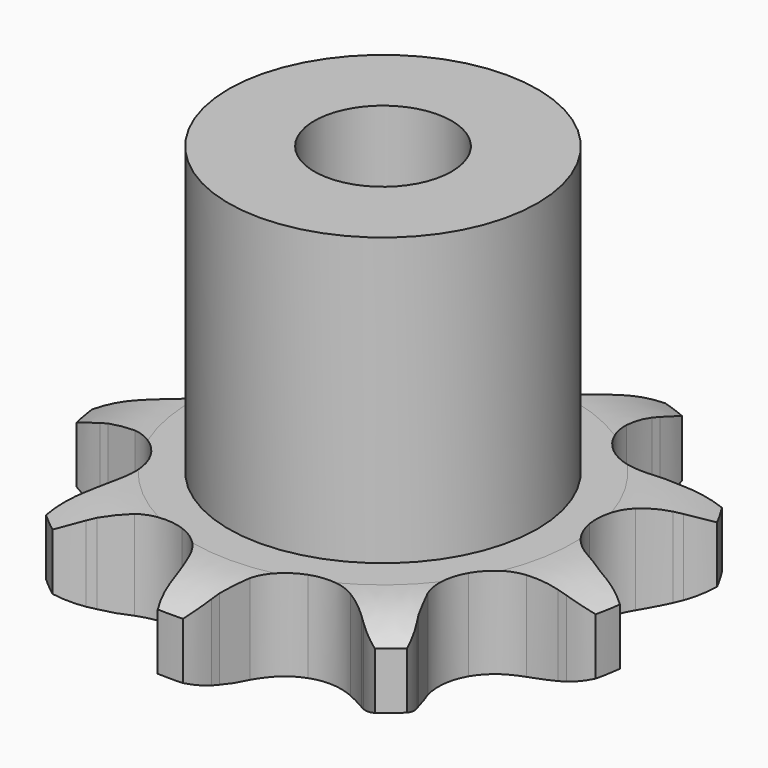
from build123d import *

# Parameters (mm, degrees)
PAD_DEPTH         = 5.3
SKETCH001_R       = 9
PAD001_DEPTH      = 22
SKETCH002_R       = 4
POCKET_DEPTH      = 0.001
POCKET_DEPTH_BACK = -22.001


with BuildPart() as part:
    # Sprocket → Pad (new body)
    with BuildSketch(Plane.XY):
        with BuildLine():
            ThreePointArc((-5.677804, 15.599638), (-4.530468, 14.728486), (-3.653036, 13.585944))
            Line((-3.653036, 13.585944), (-3.408939, 13.161256))
            ThreePointArc((-3.408939, 13.161256), (-2.946106, 12.443997), (-2.412125, 11.778009))
            ThreePointArc((-2.412125, 11.778009), (-1.321918, 10.978636), (0, 10.695643))
            ThreePointArc((0, 10.695643), (1.321918, 10.978636), (2.412125, 11.778009))
            ThreePointArc((2.412125, 11.778009), (2.946106, 12.443997), (3.408939, 13.161256))
            Line((3.408939, 13.161256), (3.653036, 13.585944))
            ThreePointArc((3.653036, 13.585944), (4.530468, 14.728486), (5.677804, 15.599638))
            ThreePointArc((5.677804, 15.599638), (5.996748, 14.194803), (5.934489, 12.755564))
            Line((5.934489, 12.755564), (5.848494, 12.273331))
            ThreePointArc((5.848494, 12.273331), (5.741999, 11.426375), (5.722963, 10.572963))
            ThreePointArc((5.722963, 10.572963), (6.044283, 9.259835), (6.875027, 8.193338))
            ThreePointArc((6.875027, 8.193338), (8.069579, 7.560411), (9.418554, 7.471994))
            Line((9.418554, 7.471994), (11.071291, 7.890883))
            ThreePointArc((11.071291, 7.890883), (11.300037, 7.978487), (11.531265, 8.059311))
            ThreePointArc((11.531265, 8.059311), (12.937828, 8.370546), (14.376704, 8.300394))
            ThreePointArc((14.376704, 8.300394), (13.718019, 7.019214), (12.7452, 5.956713))
            Line((12.7452, 5.956713), (12.369351, 5.642578))
            ThreePointArc((12.369351, 5.642578), (11.743359, 5.062226), (11.180214, 4.42071))
            ThreePointArc((11.180214, 4.42071), (10.582297, 3.208255), (10.533153, 1.857279))
            ThreePointArc((10.533153, 1.857279), (11.041394, 0.604585), (12.017936, -0.33025))
            Line((12.017936, -0.33025), (13.553263, -1.071722))
            ThreePointArc((13.553263, -1.071722), (13.784803, -1.151648), (14.013886, -1.238364))
            ThreePointArc((14.013886, -1.238364), (15.291434, -1.904065), (16.348585, -2.882697))
            ThreePointArc((16.348585, -2.882697), (15.020477, -3.440743), (13.592291, -3.62935))
            Line((13.592291, -3.62935), (13.102452, -3.6284))
            ThreePointArc((13.102452, -3.6284), (12.249871, -3.670596), (11.406118, -3.800043))
            ThreePointArc((11.406118, -3.800043), (10.168736, -4.344504), (9.262699, -5.347822))
            ThreePointArc((9.262699, -5.347822), (8.846819, -6.634132), (8.993993, -7.977966))
            Line((8.993993, -7.977966), (9.693513, -9.532856))
            ThreePointArc((9.693513, -9.532856), (9.819507, -9.742914), (9.939255, -9.956594))
            ThreePointArc((9.939255, -9.956594), (10.490009, -11.287743), (10.670781, -12.716941))
            ThreePointArc((10.670781, -12.716941), (9.294686, -12.290738), (8.079398, -11.5172))
            Line((8.079398, -11.5172), (7.70477, -11.201609))
            ThreePointArc((7.70477, -11.201609), (7.024532, -10.685904), (6.294973, -10.242713))
            ThreePointArc((6.294973, -10.242713), (4.997111, -9.864421), (3.658126, -10.050617))
            ThreePointArc((3.658126, -10.050617), (2.512718, -10.768666), (1.76166, -11.892704))
            Line((1.76166, -11.892704), (1.29806, -13.533461))
            ThreePointArc((1.29806, -13.533461), (1.259555, -13.775362), (1.213936, -14.016024))
            ThreePointArc((1.213936, -14.016024), (0.780192, -15.38976), (0, -16.600788))
            ThreePointArc((0, -16.600788), (-0.780192, -15.38976), (-1.213936, -14.016024))
            Line((-1.213936, -14.016024), (-1.29806, -13.533461))
            ThreePointArc((-1.29806, -13.533461), (-1.487663, -12.70116), (-1.76166, -11.892704))
            ThreePointArc((-1.76166, -11.892704), (-2.512718, -10.768666), (-3.658126, -10.050617))
            ThreePointArc((-3.658126, -10.050617), (-4.997111, -9.864421), (-6.294973, -10.242713))
            Line((-6.294973, -10.242713), (-7.70477, -11.201609))
            ThreePointArc((-7.70477, -11.201609), (-7.889758, -11.362166), (-8.079398, -11.5172))
            ThreePointArc((-8.079398, -11.5172), (-9.294686, -12.290738), (-10.670781, -12.716941))
            ThreePointArc((-10.670781, -12.716941), (-10.490009, -11.287743), (-9.939255, -9.956594))
            Line((-9.939255, -9.956594), (-9.693513, -9.532856))
            ThreePointArc((-9.693513, -9.532856), (-9.303764, -8.773401), (-8.993993, -7.977966))
            ThreePointArc((-8.993993, -7.977966), (-8.846819, -6.634132), (-9.262699, -5.347822))
            ThreePointArc((-9.262699, -5.347822), (-10.168736, -4.344504), (-11.406118, -3.800043))
            Line((-11.406118, -3.800043), (-13.102452, -3.6284))
            ThreePointArc((-13.102452, -3.6284), (-13.347364, -3.632486), (-13.592291, -3.62935))
            ThreePointArc((-13.592291, -3.62935), (-15.020477, -3.440743), (-16.348585, -2.882697))
            ThreePointArc((-16.348585, -2.882697), (-15.291434, -1.904065), (-14.013886, -1.238364))
            Line((-14.013886, -1.238364), (-13.553263, -1.071722))
            ThreePointArc((-13.553263, -1.071722), (-12.766531, -0.740471), (-12.017936, -0.33025))
            ThreePointArc((-12.017936, -0.33025), (-11.041394, 0.604585), (-10.533153, 1.857279))
            ThreePointArc((-10.533153, 1.857279), (-10.582297, 3.208255), (-11.180214, 4.42071))
            Line((-11.180214, 4.42071), (-12.369351, 5.642578))
            ThreePointArc((-12.369351, 5.642578), (-12.559591, 5.796875), (-12.7452, 5.956713))
            ThreePointArc((-12.7452, 5.956713), (-13.718019, 7.019214), (-14.376704, 8.300394))
            ThreePointArc((-14.376704, 8.300394), (-12.937828, 8.370546), (-11.531265, 8.059311))
            Line((-11.531265, 8.059311), (-11.071291, 7.890883))
            ThreePointArc((-11.071291, 7.890883), (-10.255695, 7.638934), (-9.418554, 7.471994))
            ThreePointArc((-9.418554, 7.471994), (-8.069579, 7.560411), (-6.875027, 8.193338))
            ThreePointArc((-6.875027, 8.193338), (-6.044283, 9.259835), (-5.722963, 10.572963))
            Line((-5.722963, 10.572963), (-5.848494, 12.273331))
            ThreePointArc((-5.848494, 12.273331), (-5.895046, 12.513813), (-5.934489, 12.755564))
            ThreePointArc((-5.934489, 12.755564), (-5.996748, 14.194803), (-5.677804, 15.599638))
        make_face()
    extrude(amount=PAD_DEPTH)

    # Sketch → Groove (revolve, cut)
    with BuildSketch(Plane.XZ):
        with BuildLine():
            Line((11.141101, 0), (15.5, 0))
            Line((19.858899, 0), (15.5, 0))
            Line((19.858899, 5.3), (19.858899, 0))
            Line((15.5, 5.3), (19.858899, 5.3))
            Line((11.141101, 5.3), (15.5, 5.3))
            ThreePointArc((15.5, 4.3), (13.377169, 5.046794), (11.141101, 5.3))
            Line((15.5, 1), (15.5, 4.3))
            ThreePointArc((11.141101, 0), (13.377169, 0.253206), (15.5, 1))
        make_face()
    revolve(axis=Axis((0, 0, 0), (0, 0, 1)), mode=Mode.SUBTRACT)

    # Sketch001 → Pad001 (join)
    with BuildSketch(Plane.XY):
        Circle(SKETCH001_R)
    extrude(amount=PAD001_DEPTH)

    # Sketch002 → Pocket (cut, two sides)
    with BuildSketch(Plane.XY) as pocket_sk:
        Circle(SKETCH002_R)
    extrude(amount=-POCKET_DEPTH, mode=Mode.SUBTRACT)
    extrude(pocket_sk.sketch, amount=-POCKET_DEPTH_BACK, mode=Mode.SUBTRACT)


solid = part.part
